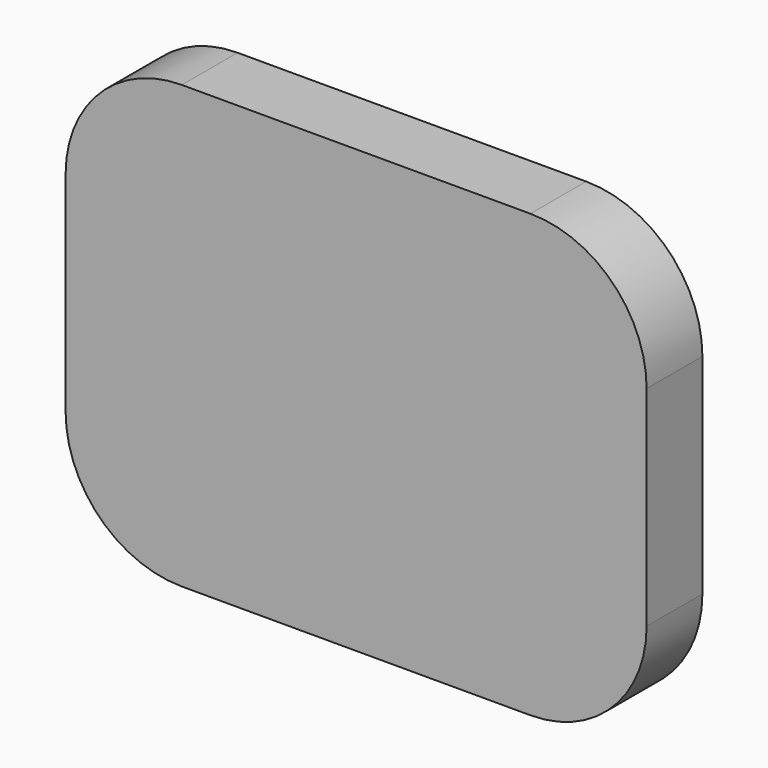
from build123d import *

# Parameters (mm, degrees)
F1_DEPTH = 9.525


with BuildPart() as f1:
    # F0 (on Front) → F1 (new body, symmetric)
    with BuildSketch(Plane.XZ):
        with BuildLine():
            Line((-79.375, 28.575), (-79.375, -28.575))
            ThreePointArc((-79.375, -28.575), (-70.0756403027, -51.0256403027), (-47.625, -60.325))
            Line((-47.625, -60.325), (47.625, -60.325))
            ThreePointArc((47.625, -60.325), (70.0756403027, -51.0256403027), (79.375, -28.575))
            Line((79.375, -28.575), (79.375, 28.575))
            ThreePointArc((79.375, 28.575), (70.0756403027, 51.0256403027), (47.625, 60.325))
            Line((47.625, 60.325), (-47.625, 60.325))
            ThreePointArc((-47.625, 60.325), (-70.0756403027, 51.0256403027), (-79.375, 28.575))
        make_face()
    extrude(amount=F1_DEPTH, both=True)


solid = f1.part
